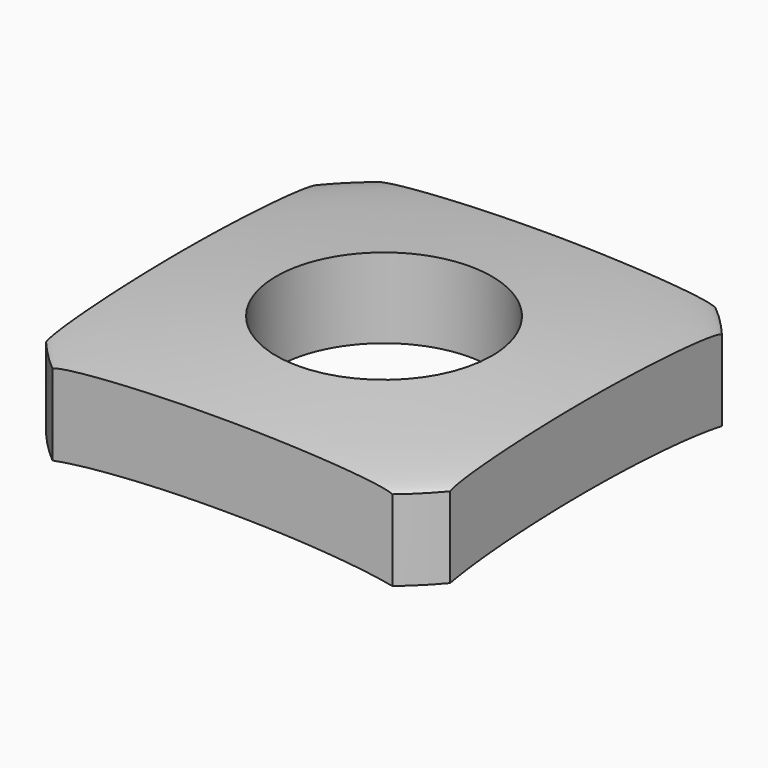
from build123d import *

# Parameters (mm, degrees)
SKETCH001_W     = 10
SKETCH001_H     = 10
SKETCH001_W_2   = 7.5
SKETCH001_H_2   = 7.5
POCKET_DEPTH    = 5
SKETCH002_R     = 2
POCKET001_DEPTH = 5


with BuildPart() as part:
    # Sketch → Revolution (revolve)
    with BuildSketch(Plane.XZ):
        with BuildLine():
            add(Edge.make_bspline(
                [(0, 2), (4.7, 1.7), (4.9, 1.5)],
                knots=[0, 0, 0, 1, 1, 1], degree=2))
            Line((4.9, 1.5), (4.9, 0))
            add(Edge.make_bspline(
                [(0, 0.5), (3.9, 0.3), (4.9, 0)],
                knots=[0, 0, 0, 1, 1, 1], degree=2))
            Line((0, 0.5), (0, 2))
        make_face()
    revolve(axis=Axis((0, 0, 0), (0, 0, 1)))

    # Sketch001 → Pocket (cut)
    with BuildSketch(Plane.XY):
        Rectangle(SKETCH001_W, SKETCH001_H)
        Rectangle(SKETCH001_W_2, SKETCH001_H_2, mode=Mode.SUBTRACT)
    extrude(amount=POCKET_DEPTH, mode=Mode.SUBTRACT)

    # Sketch002 → Pocket001 (cut)
    with BuildSketch(Plane.XY):
        Circle(SKETCH002_R)
    extrude(amount=POCKET001_DEPTH, mode=Mode.SUBTRACT)


solid = part.part
